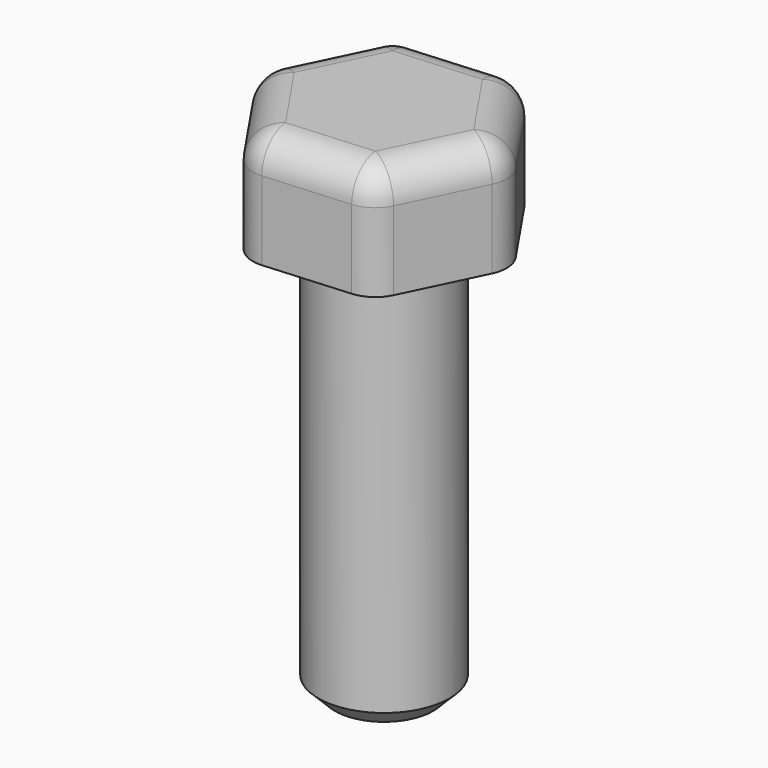
from build123d import *

# Parameters (mm, degrees)
F1_DEPTH = 6.8
F2_R     = 4
F3_DEPTH = 25
F4_SIZE  = 1
F5_R     = 2


with BuildPart() as f1:
    # F0 (on Top) → F1 (new body)
    with BuildSketch(Plane.XY):
        Polygon((7.485782, 0.544427), (3.271403, 6.755091), (-4.214379, 6.210664), (-7.485782, -0.544427), (-3.271403, -6.755091), (4.214379, -6.210664), align=None)
    extrude(amount=F1_DEPTH)

    # F2 (on face) → F3 (join)
    with BuildSketch(Plane(origin=(0, 0, 0), x_dir=(1, 0, 0), z_dir=(0, 0, -1))):
        Circle(F2_R)
    extrude(amount=F3_DEPTH)

    # F4
    f4_edges = [f1.edges().sort_by_distance(p)[0] for p in [
        (-4, 0, -25),
    ]]
    chamfer(f4_edges, length=F4_SIZE)

    # F5
    f5_edges = [f1.edges().sort_by_distance(p)[0] for p in [
        (0.471488, -6.482877, 6.8),
        (-5.378592, -3.649759, 6.8),
        (-5.85008, 2.833118, 6.8),
        (-0.471488, 6.482877, 6.8),
        (5.378592, 3.649759, 6.8),
        (5.85008, -2.833118, 6.8),
        (7.485782, 0.544427, 3.4),
        (4.214379, -6.210664, 3.4),
        (-3.271403, -6.755091, 3.4),
        (-7.485782, -0.544427, 3.4),
        (-4.214379, 6.210664, 3.4),
        (3.271403, 6.755091, 3.4),
    ]]
    fillet(f5_edges, radius=F5_R)


solid = f1.part
